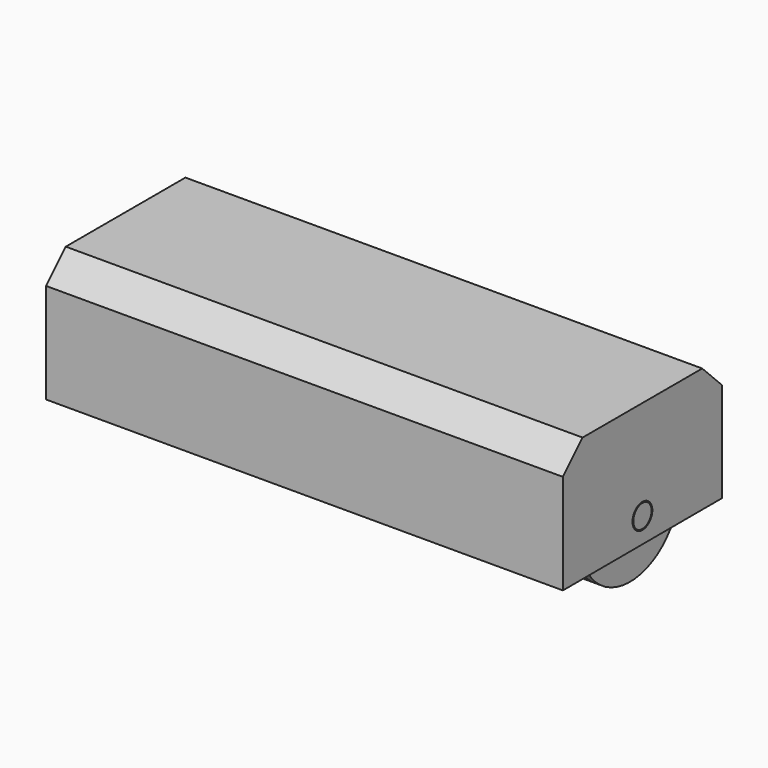
from build123d import *

# Parameters (mm, degrees)
F1_DEPTH = 50
F2_R     = 2.5
F3_DEPTH = 2
F4_R     = 2.3
F5_DEPTH = 52
F7_R     = 12.5
F8_DEPTH = 4


with BuildPart() as f1:
    # F0 (on Right) → F1 (new body)
    with BuildSketch(Plane.YZ):
        Polygon((15.0502525317, 20), (0, 20), (-15.0502525317, 20), (-20, 15.0502525317), (-20, -5.0710678119), (-18.5, -5.0710678119), (-18.5, 14.4289321881), (-14.4289321881, 18.5), (0.0710678119, 18.5), (14.4289321881, 18.5), (18.5, 14.4289321881), (18.5, -3.5), (14, -3.5), (14, -5), (20, -5), (20, 15.0502525317), align=None)
    extrude(amount=F1_DEPTH)

    # F2 (on face) → F3 (join)
    with BuildSketch(Plane.YZ.offset(50)):
        Polygon((-20, 15.0502525317), (-20, -5.0710678119), (-18.5, -5.0710678119), (14, -5), (20, -5), (20, 15.0502525317), (15.0502525317, 20), (0, 20), (-15.0502525317, 20), align=None)
        Circle(F2_R, mode=Mode.SUBTRACT)
    extrude(amount=F3_DEPTH)

    # F14: F1 across plane


with BuildPart() as f5:
    # F4 (on face) → F5 (new body)
    with BuildSketch(Plane.YZ.offset(52)):
        Circle(F4_R)
    extrude(amount=-F5_DEPTH)

    # F7 (on offset) → F8 (join)
    with BuildSketch(Plane.YZ.offset(49.5)):
        Circle(F7_R)
    extrude(amount=-F8_DEPTH)

    # F10 (on offset) → F13 (revolve, cut)
    with BuildSketch(Plane.XY):
        with BuildLine():
            Line((47.9, 12.5), (47.1, 12.5))
            ThreePointArc((47.1, 12.5), (47.5, 12.1), (47.9, 12.5))
        make_face()
    revolve(axis=Axis((21.459730342, 0, 0), (1, 0, 0)), mode=Mode.SUBTRACT)

    # F15: F5 across plane


with BuildPart() as f1_1:
    add(f1.part)
    add(f1.part.mirror(Plane.YZ))


with BuildPart() as f5_1:
    add(f5.part)
    add(f5.part.mirror(Plane.YZ))


solid = Compound([f1_1.part, f5_1.part])
